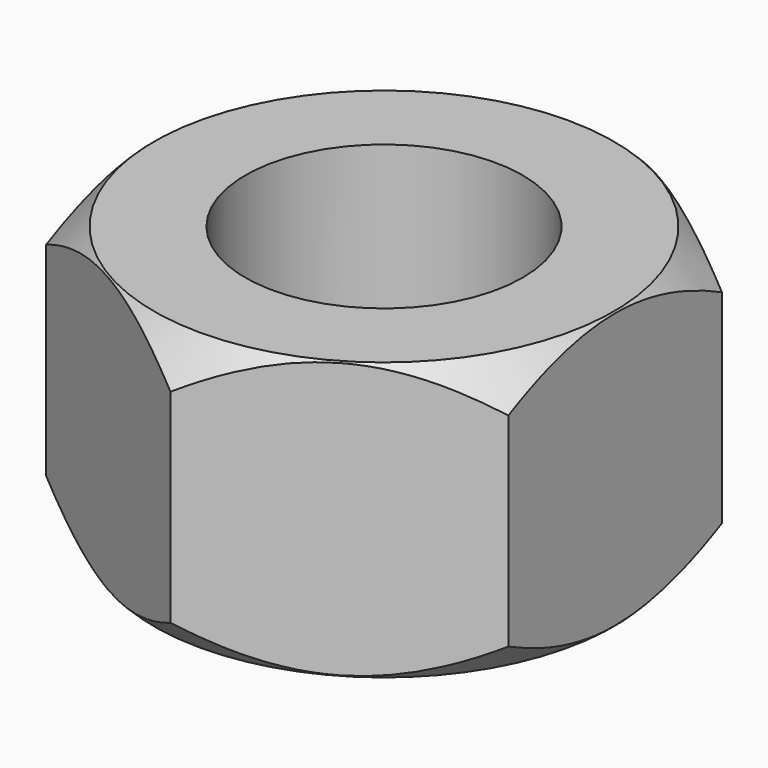
from build123d import *

# Parameters (mm, degrees)
F0_R     = 4.7625
F1_DEPTH = 4.7625


with BuildPart() as f1:
    # F0 (on Top) → F1 (new body, symmetric)
    with BuildSketch(Plane.XY):
        Polygon((7.9375, 4.582718), (0, 9.165436), (-7.9375, 4.582718), (-7.9375, -4.582718), (0, -9.165436), (7.9375, -4.582718), align=None)
        Circle(F0_R, mode=Mode.SUBTRACT)
    extrude(amount=F1_DEPTH, both=True)

    # F2 (on Right) → F3 (revolve, cut)
    with BuildSketch(Plane.YZ):
        Polygon((7.30933, 5.348605), (9.165436, 3.4925), (9.165436, -3.4925), (7.360179, -5.297757), (12.983813, -5.297757), (12.983813, 5.348605), align=None)
    revolve(axis=Axis((0, 0, 4.158017), (0, 0, 1)), mode=Mode.SUBTRACT)


solid = f1.part
